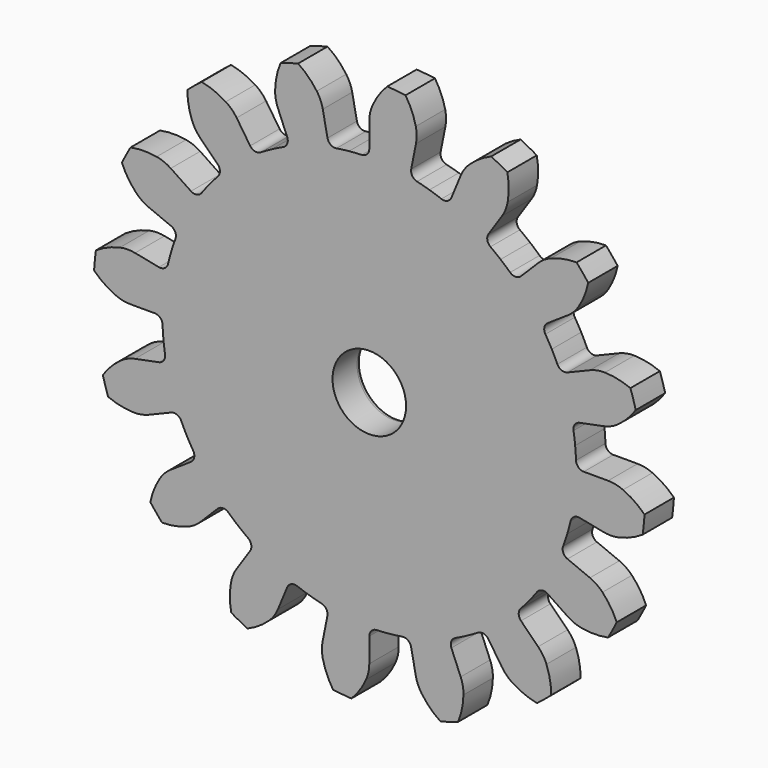
from build123d import *

# Parameters (mm, degrees)
SKETCH004_R           = 22.5
PAD004_DEPTH          = 3
POCKET_DEPTH          = 127.421563
POCKET_DEPTH_BACK     = 130.421563
POLARPATTERN_COUNT    = 16
POCKET003_DEPTH       = 130.15313
POCKET003_DEPTH_BACK  = 127.15313
POLARPATTERN003_COUNT = 16
SKETCH010_R           = 3
POCKET005_DEPTH       = 3.001
POCKET005_DEPTH_BACK  = 0.001
FILLET001_R           = 0.5


with BuildPart() as part:
    # Sketch004 → Pad004 (new body)
    with BuildSketch(Plane.XZ):
        Circle(SKETCH004_R)
    extrude(amount=PAD004_DEPTH)

    # Sketch003 → Pocket (cut, two sides)
    with BuildSketch(Plane.XZ) as pocket_sk:
        with BuildLine():
            ThreePointArc((1.461333, 22.452494), (0.577758, 21.317359), (0, 20))
            Line((0, 20), (0, 17.5))
            ThreePointArc((-0.613434, 16.863847), (-0.17834, 17.058131), (0, 17.5))
            ThreePointArc((-0.613434, 16.863847), (-1.134612, 16.836813), (-1.654706, 16.793677))
            Line((-1.654706, 16.793677), (-2.635272, 26.745485))
            ThreePointArc((7.81058, 25.714985), (2.638453, 26.745171), (-2.635272, 26.745485))
            Line((4.904318, 16.146619), (7.81058, 25.714985))
            ThreePointArc((4.904318, 16.146619), (4.402679, 16.290551), (3.896829, 16.418902))
            ThreePointArc((3.419526, 17.162658), (3.508086, 16.69446), (3.896829, 16.418902))
            Line((3.419526, 17.162658), (3.908029, 19.614467))
            ThreePointArc((3.908029, 19.614467), (3.598822, 21.019326), (2.954087, 22.305232))
            ThreePointArc((2.954087, 22.305232), (2.208938, 22.391306), (1.461333, 22.452494))
        make_face()
    pocket = extrude(amount=-POCKET_DEPTH, mode=Mode.SUBTRACT) + extrude(pocket_sk.sketch, amount=POCKET_DEPTH_BACK, mode=Mode.SUBTRACT)

    # PolarPattern: Pocket ×16 about axis
    polarpattern_axis = Axis((0, 0, 0), (0, 1, 0))
    for i in range(1, POLARPATTERN_COUNT):
        add(pocket.rotate(polarpattern_axis, i * 360 / POLARPATTERN_COUNT), mode=Mode.SUBTRACT)

    # Sketch008 (on Face114 of PolarPattern) → Pocket003 (cut, two sides)
    with BuildSketch(Plane.XZ.offset(3)) as pocket003_sk:
        with BuildLine():
            ThreePointArc((0.257563, 20.698372), (0.065097, 20.103781), (0, 19.482216))
            Line((0, 19.482216), (-0.637583, 20.252598))
            Line((0.257563, 20.698372), (-0.637583, 20.252598))
        make_face()
        with BuildLine():
            ThreePointArc((3.806854, 19.106664), (3.864466, 19.728968), (3.791895, 20.349705))
            Line((3.791895, 20.349705), (4.58268, 19.737611))
            Line((3.806854, 19.106664), (4.58268, 19.737611))
        make_face()
    pocket003 = extrude(amount=-POCKET003_DEPTH, mode=Mode.SUBTRACT) + extrude(pocket003_sk.sketch, amount=POCKET003_DEPTH_BACK, mode=Mode.SUBTRACT)

    # PolarPattern003: Pocket003 ×16 about axis
    polarpattern003_axis = Axis((0, 0, 0), (0, 1, 0))
    for i in range(1, POLARPATTERN003_COUNT):
        add(pocket003.rotate(polarpattern003_axis, i * 360 / POLARPATTERN003_COUNT), mode=Mode.SUBTRACT)

    # Sketch010 (on Face162 of PolarPattern003) → Pocket005 (cut, two sides)
    with BuildSketch(Plane.XZ.offset(3)) as pocket005_sk:
        Circle(SKETCH010_R)
    extrude(amount=-POCKET005_DEPTH, mode=Mode.SUBTRACT)
    extrude(pocket005_sk.sketch, amount=POCKET005_DEPTH_BACK, mode=Mode.SUBTRACT)

    # Fillet001
    fillet001_edges = [part.edges().sort_by_distance(p)[0] for p in [
        (-3, 0, 0),
    ]]
    fillet(fillet001_edges, radius=FILLET001_R)


with BuildPart() as part_1:
    # Body002 placement: moved
    add(part.part.moved(Location((0, -3, 0))))


solid = part_1.part
